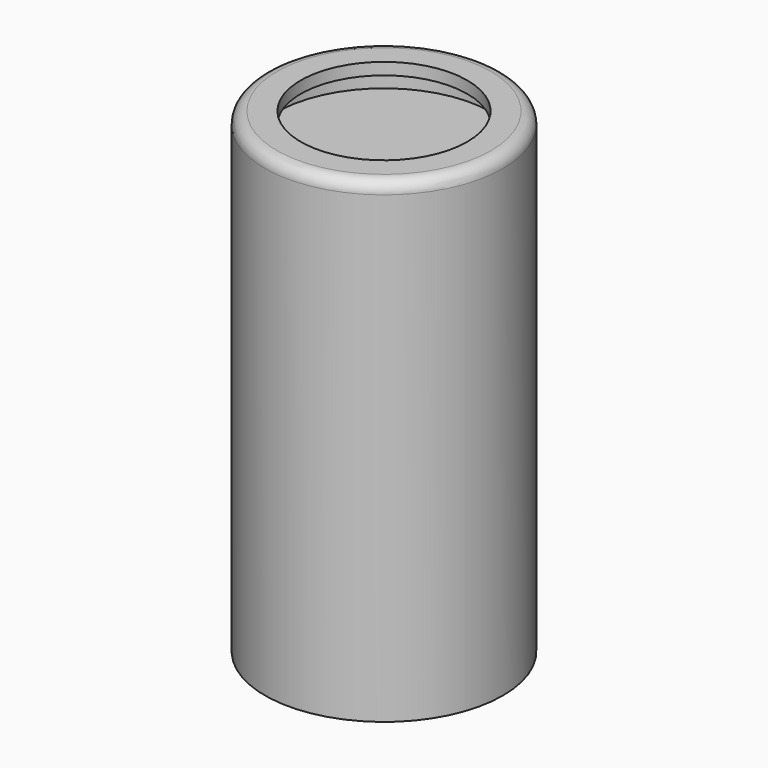
from build123d import *

# Parameters (mm, degrees)
SKETCH040_R     = 5
PAD022_DEPTH    = 20
SKETCH041_R     = 3.5
POCKET012_DEPTH = 0.5
SKETCH043_R     = 4.5
POCKET010_DEPTH = 1
FILLET005_R     = 0.5


with BuildPart() as part:
    # Sketch040 → Pad022 (new body)
    with BuildSketch(Plane.XY):
        Circle(SKETCH040_R)
    extrude(amount=PAD022_DEPTH)

    # Sketch041 (on Face3 of Pad022) → Pocket012 (cut)
    with BuildSketch(Plane.XY.offset(20)):
        Circle(SKETCH041_R)
    extrude(amount=-POCKET012_DEPTH, mode=Mode.SUBTRACT)

    # Sketch043 (on Face5 of Pocket012) → Pocket010 (cut)
    with BuildSketch(Plane.XY.offset(19.5)):
        Circle(SKETCH043_R)
    extrude(amount=-POCKET010_DEPTH, mode=Mode.SUBTRACT)

    # Fillet005
    fillet005_edges = [part.edges().sort_by_distance(p)[0] for p in [
        (-5, 0, 20),
    ]]
    fillet(fillet005_edges, radius=FILLET005_R)


solid = part.part
